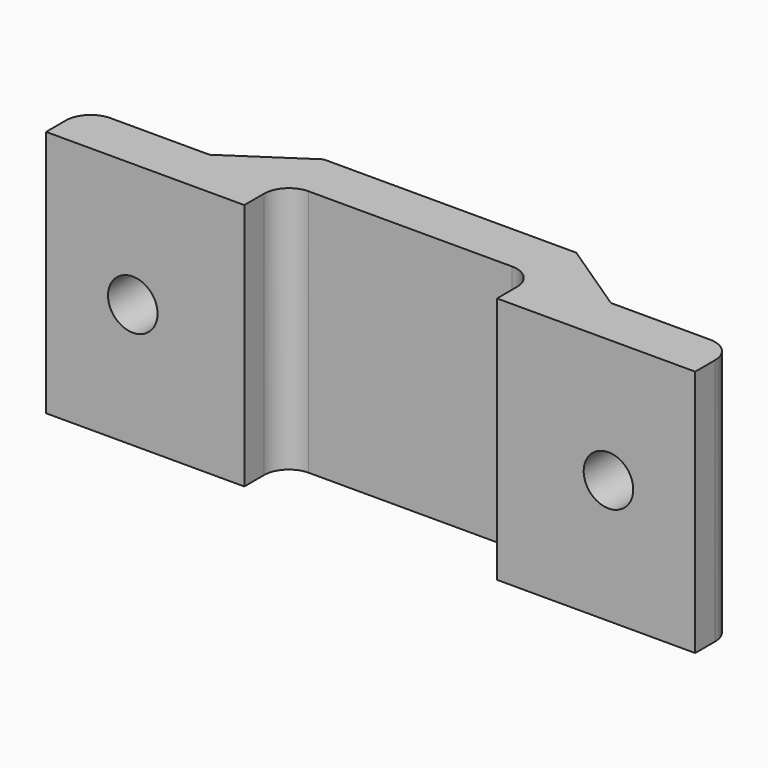
from build123d import *

# Parameters (mm, degrees)
F1_DEPTH = 10
F2_R     = 1
F3_DEPTH = 4.001


with BuildPart() as f1:
    # F0 (on Top) → F1 (new body)
    with BuildSketch(Plane.XY):
        with BuildLine():
            Line((-31.711687, 1), (-31.711687, 0))
            Line((-31.711687, 0), (-23.711687, 0))
            Line((-23.711687, 0), (-23.711687, 1))
            ThreePointArc((-23.711687, 1), (-23.418794, 1.707107), (-22.711687, 2))
            Line((-22.711687, 2), (-14.511687, 2))
            ThreePointArc((-14.511687, 2), (-13.80458, 1.707107), (-13.511687, 1))
            Line((-13.511687, 1), (-13.511687, 0))
            Line((-13.511687, 0), (-5.511687, 0))
            Line((-5.511687, 0), (-5.511687, 1))
            ThreePointArc((-5.511687, 1), (-5.80458, 1.707107), (-6.511687, 2))
            Line((-6.511687, 2), (-10.511687, 2))
            Line((-10.511687, 2), (-13.511687, 2))
            Line((-13.511687, 2), (-13.511687, 4))
            Line((-13.511687, 4), (-23.711687, 4))
            Line((-23.711687, 4), (-23.711687, 2))
            Line((-23.711687, 2), (-26.711687, 2))
            Line((-26.711687, 2), (-30.711687, 2))
            ThreePointArc((-30.711687, 2), (-31.418794, 1.707107), (-31.711687, 1))
        make_face()
        Polygon((-23.711687, 4), (-26.711687, 2), (-23.711687, 2), align=None)
        Polygon((-10.511687, 2), (-13.511687, 4), (-13.511687, 2), align=None)
    extrude(amount=F1_DEPTH)

    # F2 (on face) → F3 (cut, through all)
    with BuildSketch(Plane.XZ):
        with Locations((-28.211687, 5)):
            Circle(F2_R)
        with Locations((-9.011687, 5)):
            Circle(F2_R)
    extrude(amount=-F3_DEPTH, mode=Mode.SUBTRACT)


solid = f1.part
